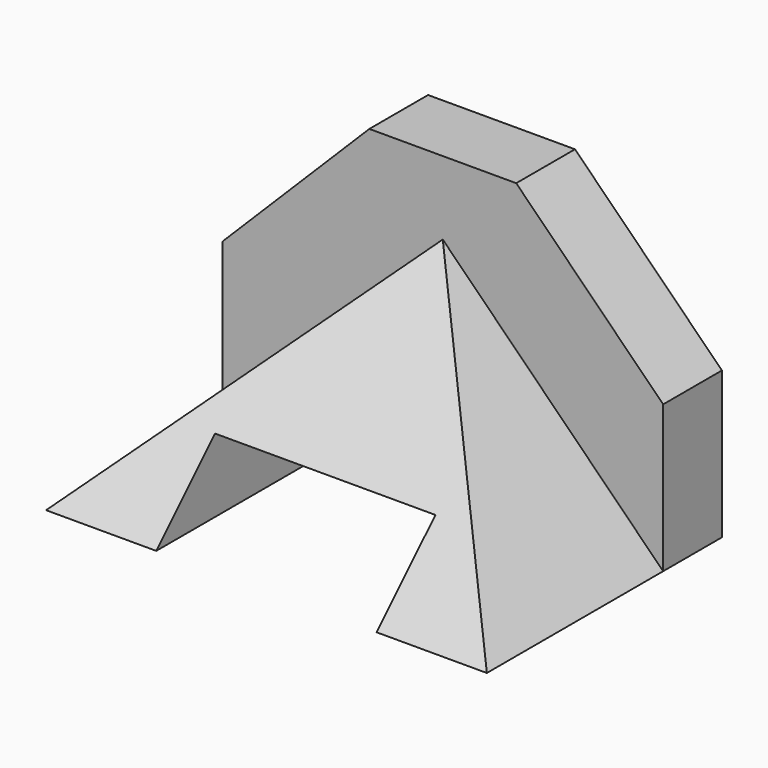
from build123d import *

# Parameters (mm, degrees)
F0_W     = 76.2
F0_H     = 50.8
F1_DEPTH = 6.35
F2_W     = 76.2
F2_H     = 38.1
F3_DEPTH = 38.1
F5_DEPTH = 38.1
F7_DEPTH = 76.201
F9_DEPTH = 50.801


with BuildPart() as f1:
    # F0 (on Front) → F1 (new body, symmetric)
    with BuildSketch(Plane.XZ):
        with Locations((38.1, 25.4)):
            Rectangle(F0_W, F0_H)
    extrude(amount=F1_DEPTH, both=True)

    # F2 (on face) → F3 (join)
    with BuildSketch(Plane.XZ.offset(6.35)):
        with Locations((38.1, 19.05)):
            Rectangle(F2_W, F2_H)
    extrude(amount=F3_DEPTH)

    # F4 (on face) → F5 (cut)
    with BuildSketch(Plane.XZ.offset(44.45)):
        Polygon((0, 38.1), (0, 0), (38.1, 38.1), align=None)
        Polygon((76.2, 38.1), (38.1, 38.1), (76.2, 0), align=None)
    extrude(amount=-F5_DEPTH, mode=Mode.SUBTRACT)

    # F6 (on Right) → F7 (cut, through all)
    with BuildSketch(Plane.YZ):
        Polygon((-44.45, 0), (-6.35, 38.1), (-44.45, 38.1), align=None)
    extrude(amount=F7_DEPTH, mode=Mode.SUBTRACT)

    # F8 (on face) → F9 (cut, through all)
    with BuildSketch(Plane(origin=(0, 6.35, 0), x_dir=(-1, 0, 0), z_dir=(0, 1, 0))):
        Polygon((0, 50.8), (-25.4, 50.8), (0, 25.4), align=None)
        Polygon((-76.2, 50.8), (-76.2, 25.4), (-50.8, 50.8), align=None)
        Polygon((-57.15, 12.7), (-57.15, 0), (-38.1, 0), (-19.05, 0), (-19.05, 12.7), (-38.1, 12.7), align=None)
    extrude(amount=-F9_DEPTH, mode=Mode.SUBTRACT)


solid = f1.part
